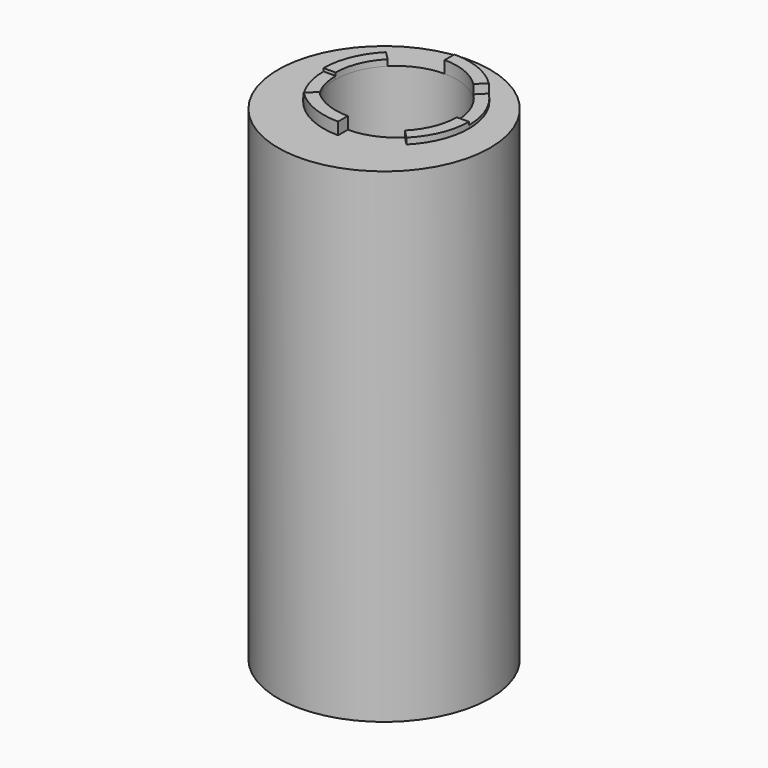
from build123d import *

# Parameters (mm, degrees)
F2_R      = 17.5
F3_DEPTH  = 80
F6_D      = 20
F8_DEPTH  = 2
F10_DEPTH = 0.5
F12_DEPTH = 1


with BuildPart() as f3:
    # F2 (on Top) → F3 (new body)
    with BuildSketch(Plane.XY):
        Circle(F2_R)
    extrude(amount=F3_DEPTH)

    # F6 (through all)
    with Locations(Plane.XY.offset(80)):
        with Locations((0, 2.5)):
            Hole(F6_D / 2)

    # F7 (on offset) → F8 (join)
    with BuildSketch(Plane.XY.offset(80)):
        with BuildLine():
            Line((0, -9.5), (0, -7.5))
            ThreePointArc((0, -7.5), (-3.8268343237, -6.7387953251), (-7.0710678119, -4.5710678119))
            Line((-7.0710678119, -4.5710678119), (-8.4852813742, -5.9852813742))
            ThreePointArc((-8.4852813742, -5.9852813742), (-4.5922011884, -8.5865543901), (0, -9.5))
        make_face()
        with BuildLine():
            Line((0, 14.4321346406), (0, 12.5))
            ThreePointArc((0, 12.5), (3.8268343237, 11.7387953251), (7.0710678119, 9.5710678119))
            Line((7.0710678119, 9.5710678119), (8.4852813742, 10.9852813742))
            ThreePointArc((8.4852813742, 10.9852813742), (4.5922011884, 13.5865543901), (0, 14.5))
            Line((0, 14.5), (0, 14.4321346406))
        make_face()
    extrude(amount=F8_DEPTH)

    # F9 (on offset) → F10 (join)
    with BuildSketch(Plane.XY.offset(80)):
        with BuildLine():
            Line((-8.4852813742, -5.9852813742), (-7.0710678119, -4.5710678119))
            ThreePointArc((-7.0710678119, -4.5710678119), (-9.2387953251, -1.3268343237), (-10, 2.5))
            Line((-10, 2.5), (-12, 2.5))
            ThreePointArc((-12, 2.5), (-11.0865543901, -2.0922011884), (-8.4852813742, -5.9852813742))
        make_face()
        with BuildLine():
            Line((8.4328658848, 10.9328658848), (7.0710678119, 9.5710678119))
            ThreePointArc((7.0710678119, 9.5710678119), (9.2387953251, 6.3268343237), (10, 2.5))
            Line((10, 2.5), (12, 2.5))
            ThreePointArc((12, 2.5), (11.0865543901, 7.0922011884), (8.4852813742, 10.9852813742))
            Line((8.4852813742, 10.9852813742), (8.4328658848, 10.9328658848))
        make_face()
    extrude(amount=F10_DEPTH)

    # F11 (on offset) → F12 (join)
    with BuildSketch(Plane.XY.offset(80)):
        with BuildLine():
            Line((-12, 2.5), (-10, 2.5))
            ThreePointArc((-10, 2.5), (-9.2387953251, 6.3268343237), (-7.0710678119, 9.5710678119))
            Line((-7.0710678119, 9.5710678119), (-8.4852813742, 10.9852813742))
            ThreePointArc((-8.4852813742, 10.9852813742), (-11.0865543901, 7.0922011884), (-12, 2.5))
        make_face()
        with BuildLine():
            Line((12, 2.5), (10, 2.5))
            ThreePointArc((10, 2.5), (9.2387953251, -1.3268343237), (7.0710678119, -4.5710678119))
            Line((7.0710678119, -4.5710678119), (8.4852813742, -5.9852813742))
            ThreePointArc((8.4852813742, -5.9852813742), (11.0865543901, -2.0922011884), (12, 2.5))
        make_face()
    extrude(amount=F12_DEPTH)


solid = f3.part
